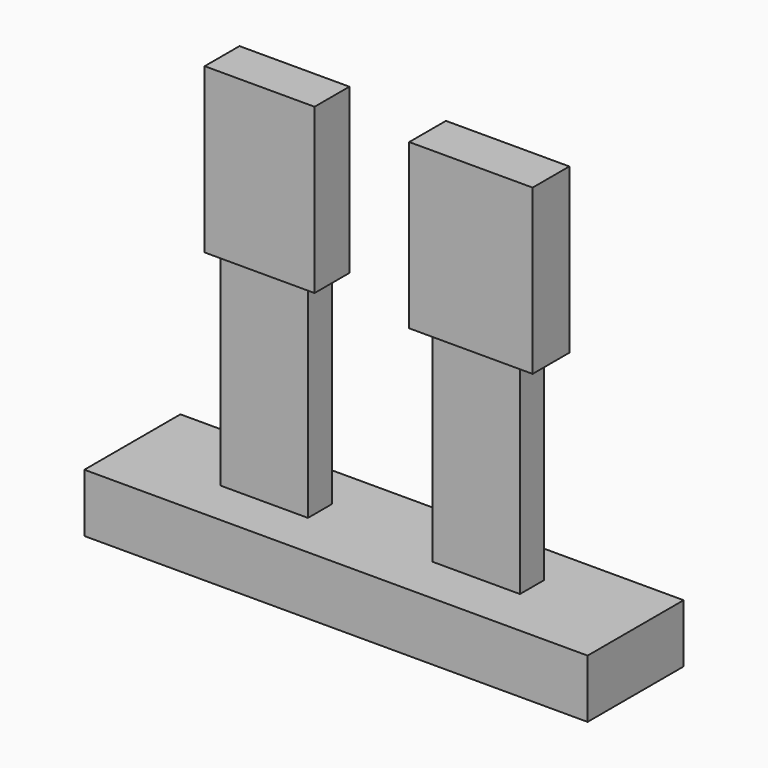
from build123d import *

# Parameters (mm, degrees)
F0_W     = 319.505253
F0_H     = 37.063959
F1_DEPTH = 76.2
F2_W     = 55.612809
F2_H     = 19.239029
F2_W_2   = 55.61281
F2_H_2   = 18.938417
F3_DEPTH = 129.54
F4_W     = 69.768153
F4_H     = 27.621901
F4_W_2   = 78.345757
F4_H_2   = 29.128553
F5_DEPTH = 104.14


with BuildPart() as f1:
    # F0 (on Front) → F1 (new body)
    with BuildSketch(Plane.XZ):
        with Locations((33.688419, -34.904941)):
            Rectangle(F0_W, F0_H)
    extrude(amount=F1_DEPTH)

    # F2 (on face) → F3 (join)
    with BuildSketch(Plane.XY.offset(-16.372962)):
        with Locations((-35.000917, -37.726529)):
            Rectangle(F2_W, F2_H)
        with Locations((98.169219, -36.073173)):
            Rectangle(F2_W_2, F2_H_2)
    extrude(amount=F3_DEPTH)

    # F4 (on face) → F5 (join)
    with BuildSketch(Plane.XY.offset(113.167038)):
        with Locations((-34.884076, -37.289564)):
            Rectangle(F4_W, F4_H)
        with Locations((99.47876, -36.787349)):
            Rectangle(F4_W_2, F4_H_2)
    extrude(amount=F5_DEPTH)


solid = f1.part
